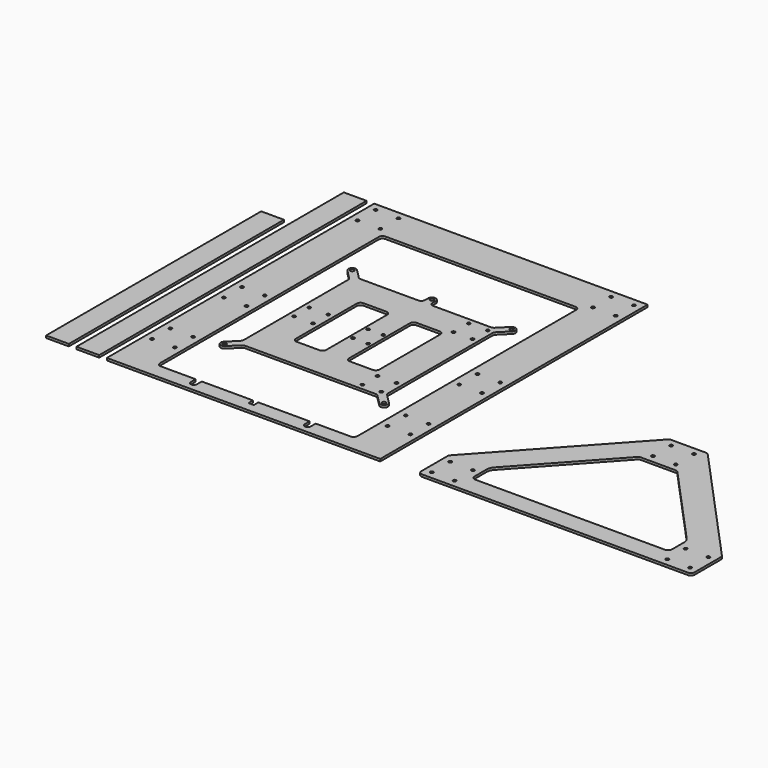
from build123d import *

# Parameters (mm, degrees)
F0_W     = 360
F0_H     = 440
F0_R     = 2.05
F1_DEPTH = 3
F2_R     = 2.45
F2_R_2   = 2.05
F3_DEPTH = 3
F4_R     = 2.05
F5_DEPTH = 3
F6_W     = 30
F6_H     = 440
F7_W     = 30
F7_H     = 354
F8_DEPTH = 3


with BuildPart() as f1:
    # F0 (on Top) → F1 (new body)
    with BuildSketch(Plane.XY):
        with Locations((180, 220)):
            Rectangle(F0_W, F0_H)
        with Locations((10, 62)):
            Circle(F0_R, mode=Mode.SUBTRACT)
        with Locations((40, 62)):
            Circle(F0_R, mode=Mode.SUBTRACT)
        with Locations((10, 92)):
            Circle(F0_R, mode=Mode.SUBTRACT)
        with Locations((40, 92)):
            Circle(F0_R, mode=Mode.SUBTRACT)
        with Locations((10, 180)):
            Circle(F0_R, mode=Mode.SUBTRACT)
        with Locations((40, 180)):
            Circle(F0_R, mode=Mode.SUBTRACT)
        with Locations((10, 210)):
            Circle(F0_R, mode=Mode.SUBTRACT)
        with Locations((40, 210)):
            Circle(F0_R, mode=Mode.SUBTRACT)
        with Locations((320, 62)):
            Circle(F0_R, mode=Mode.SUBTRACT)
        with Locations((350, 62)):
            Circle(F0_R, mode=Mode.SUBTRACT)
        with Locations((320, 92)):
            Circle(F0_R, mode=Mode.SUBTRACT)
        with Locations((350, 92)):
            Circle(F0_R, mode=Mode.SUBTRACT)
        with BuildLine():
            Line((55, 390), (305, 390))
            ThreePointArc((305, 390), (308.535534, 388.535534), (310, 385))
            Line((310, 385), (310, 25))
            ThreePointArc((310, 25), (308.535534, 21.464466), (305, 20))
            Line((305, 20), (259, 20))
            Line((259, 20), (259, 12))
            ThreePointArc((259, 12), (255, 8), (251, 12))
            Line((251, 12), (251, 20))
            Line((251, 20), (183.5, 20))
            Line((183.5, 20), (183.5, 12.5))
            Line((183.5, 12.5), (176.5, 12.5))
            Line((176.5, 12.5), (176.5, 20))
            Line((176.5, 20), (109, 20))
            Line((109, 20), (109, 12))
            ThreePointArc((109, 12), (105, 8), (101, 12))
            Line((101, 12), (101, 20))
            Line((101, 20), (55, 20))
            ThreePointArc((55, 20), (51.464466, 21.464466), (50, 25))
            Line((50, 25), (50, 385))
            ThreePointArc((50, 385), (51.464466, 388.535534), (55, 390))
        make_face(mode=Mode.SUBTRACT)
        with Locations((320, 180)):
            Circle(F0_R, mode=Mode.SUBTRACT)
        with Locations((350, 180)):
            Circle(F0_R, mode=Mode.SUBTRACT)
        with Locations((320, 210)):
            Circle(F0_R, mode=Mode.SUBTRACT)
        with Locations((350, 210)):
            Circle(F0_R, mode=Mode.SUBTRACT)
        with Locations((10, 400)):
            Circle(F0_R, mode=Mode.SUBTRACT)
        with Locations((40, 400)):
            Circle(F0_R, mode=Mode.SUBTRACT)
        with Locations((10, 430)):
            Circle(F0_R, mode=Mode.SUBTRACT)
        with Locations((40, 430)):
            Circle(F0_R, mode=Mode.SUBTRACT)
        with Locations((320, 400)):
            Circle(F0_R, mode=Mode.SUBTRACT)
        with Locations((350, 400)):
            Circle(F0_R, mode=Mode.SUBTRACT)
        with Locations((320, 430)):
            Circle(F0_R, mode=Mode.SUBTRACT)
        with Locations((350, 430)):
            Circle(F0_R, mode=Mode.SUBTRACT)
    extrude(amount=F1_DEPTH)


with BuildPart() as f3:
    # F2 (on Top) → F3 (new body)
    with BuildSketch(Plane.XY):
        with BuildLine():
            Line((275, 119.142136), (275, 290.857864))
            ThreePointArc((275, 290.857864), (275.380602, 292.771282), (276.464466, 294.393398))
            Line((276.464466, 294.393398), (288.535534, 306.464466))
            ThreePointArc((288.535534, 306.464466), (288.535534, 313.535534), (281.464466, 313.535534))
            Line((281.464466, 313.535534), (269.393398, 301.464466))
            ThreePointArc((269.393398, 301.464466), (267.771282, 300.380602), (265.857864, 300))
            Line((265.857864, 300), (190, 300))
            ThreePointArc((190, 300), (186.464466, 301.464466), (185, 305))
            Line((185, 305), (185, 310))
            ThreePointArc((185, 310), (180, 315), (175, 310))
            Line((175, 310), (175, 305))
            ThreePointArc((175, 305), (173.535534, 301.464466), (170, 300))
            Line((170, 300), (94.142136, 300))
            ThreePointArc((94.142136, 300), (92.228718, 300.380602), (90.606602, 301.464466))
            Line((90.606602, 301.464466), (78.535534, 313.535534))
            ThreePointArc((78.535534, 313.535534), (71.464466, 313.535534), (71.464466, 306.464466))
            Line((71.464466, 306.464466), (83.535534, 294.393398))
            ThreePointArc((83.535534, 294.393398), (84.619398, 292.771282), (85, 290.857864))
            Line((85, 290.857864), (85, 119.142136))
            ThreePointArc((85, 119.142136), (84.619398, 117.228718), (83.535534, 115.606602))
            Line((83.535534, 115.606602), (71.464466, 103.535534))
            ThreePointArc((71.464466, 103.535534), (71.464466, 96.464466), (78.535534, 96.464466))
            Line((78.535534, 96.464466), (90.606602, 108.535534))
            ThreePointArc((90.606602, 108.535534), (92.228718, 109.619398), (94.142136, 110))
            Line((94.142136, 110), (180, 110))
            Line((180, 110), (265.857864, 110))
            ThreePointArc((265.857864, 110), (267.771282, 109.619398), (269.393398, 108.535534))
            Line((269.393398, 108.535534), (281.464466, 96.464466))
            ThreePointArc((281.464466, 96.464466), (288.535534, 96.464466), (288.535534, 103.535534))
            Line((288.535534, 103.535534), (276.464466, 115.606602))
            ThreePointArc((276.464466, 115.606602), (275.380602, 117.228718), (275, 119.142136))
        make_face()
        with Locations((75, 100)):
            Circle(F2_R, mode=Mode.SUBTRACT)
        with Locations((92.5, 192.5)):
            Circle(F2_R_2, mode=Mode.SUBTRACT)
        with Locations((117.5, 192.5)):
            Circle(F2_R_2, mode=Mode.SUBTRACT)
        with BuildLine():
            ThreePointArc((125, 255), (126.464466, 258.535534), (130, 260))
            Line((130, 260), (160, 260))
            ThreePointArc((160, 260), (163.535534, 258.535534), (165, 255))
            Line((165, 255), (165, 155))
            ThreePointArc((165, 155), (163.535534, 151.464466), (160, 150))
            Line((160, 150), (130, 150))
            ThreePointArc((130, 150), (126.464466, 151.464466), (125, 155))
            Line((125, 155), (125, 255))
        make_face(mode=Mode.SUBTRACT)
        with Locations((170, 192.5)):
            Circle(F2_R_2, mode=Mode.SUBTRACT)
        with Locations((242.5, 117.5)):
            Circle(F2_R_2, mode=Mode.SUBTRACT)
        with Locations((285, 100)):
            Circle(F2_R, mode=Mode.SUBTRACT)
        with Locations((267.5, 117.5)):
            Circle(F2_R_2, mode=Mode.SUBTRACT)
        with Locations((242.5, 142.5)):
            Circle(F2_R_2, mode=Mode.SUBTRACT)
        with Locations((267.5, 142.5)):
            Circle(F2_R_2, mode=Mode.SUBTRACT)
        with Locations((190, 192.5)):
            Circle(F2_R_2, mode=Mode.SUBTRACT)
        with BuildLine():
            ThreePointArc((195, 255), (196.464466, 258.535534), (200, 260))
            Line((200, 260), (230, 260))
            ThreePointArc((230, 260), (233.535534, 258.535534), (235, 255))
            Line((235, 255), (235, 155))
            ThreePointArc((235, 155), (233.535534, 151.464466), (230, 150))
            Line((230, 150), (200, 150))
            ThreePointArc((200, 150), (196.464466, 151.464466), (195, 155))
            Line((195, 155), (195, 255))
        make_face(mode=Mode.SUBTRACT)
        with Locations((92.5, 217.5)):
            Circle(F2_R_2, mode=Mode.SUBTRACT)
        with Locations((117.5, 217.5)):
            Circle(F2_R_2, mode=Mode.SUBTRACT)
        with Locations((170, 217.5)):
            Circle(F2_R_2, mode=Mode.SUBTRACT)
        with Locations((75, 310)):
            Circle(F2_R, mode=Mode.SUBTRACT)
        with Locations((190, 217.5)):
            Circle(F2_R_2, mode=Mode.SUBTRACT)
        with Locations((180, 310)):
            Circle(F2_R, mode=Mode.SUBTRACT)
        with Locations((242.5, 267.5)):
            Circle(F2_R_2, mode=Mode.SUBTRACT)
        with Locations((267.5, 267.5)):
            Circle(F2_R_2, mode=Mode.SUBTRACT)
        with Locations((242.5, 292.5)):
            Circle(F2_R_2, mode=Mode.SUBTRACT)
        with Locations((267.5, 292.5)):
            Circle(F2_R_2, mode=Mode.SUBTRACT)
        with Locations((285, 310)):
            Circle(F2_R, mode=Mode.SUBTRACT)
    extrude(amount=F3_DEPTH)


with BuildPart() as f5:
    # F4 (on Top) → F5 (new body)
    with BuildSketch(Plane.XY):
        with BuildLine():
            ThreePointArc((410, 5), (411.464466, 1.464466), (415, 0))
            Line((415, 0), (765, 0))
            ThreePointArc((765, 0), (768.535534, 1.464466), (770, 5))
            Line((770, 5), (770, 48.062763))
            ThreePointArc((770, 48.062763), (769.66229, 49.869155), (768.694779, 51.431532))
            Line((768.694779, 51.431532), (616.487299, 218.368769))
            ThreePointArc((616.487299, 218.368769), (614.811944, 219.574049), (612.792519, 220))
            Line((612.792519, 220), (567.207481, 220))
            ThreePointArc((567.207481, 220), (565.188056, 219.574049), (563.512701, 218.368769))
            Line((563.512701, 218.368769), (411.305221, 51.431532))
            ThreePointArc((411.305221, 51.431532), (410.33771, 49.869155), (410, 48.062763))
            Line((410, 48.062763), (410, 5))
        make_face()
        with Locations((420, 10)):
            Circle(F4_R, mode=Mode.SUBTRACT)
        with Locations((450, 10)):
            Circle(F4_R, mode=Mode.SUBTRACT)
        with Locations((420, 40)):
            Circle(F4_R, mode=Mode.SUBTRACT)
        with Locations((450, 40)):
            Circle(F4_R, mode=Mode.SUBTRACT)
        with Locations((730, 10)):
            Circle(F4_R, mode=Mode.SUBTRACT)
        with Locations((760, 10)):
            Circle(F4_R, mode=Mode.SUBTRACT)
        with Locations((730, 40)):
            Circle(F4_R, mode=Mode.SUBTRACT)
        with Locations((760, 40)):
            Circle(F4_R, mode=Mode.SUBTRACT)
        with BuildLine():
            Line((567.207481, 170), (612.792519, 170))
            ThreePointArc((612.792519, 170), (614.811944, 169.574049), (616.487299, 168.368769))
            Line((616.487299, 168.368769), (716.739901, 58.414302))
            ThreePointArc((716.739901, 58.414302), (719.156489, 54.511894), (720, 50))
            Line((720, 50), (720, 30))
            ThreePointArc((720, 30), (718.535534, 26.464466), (715, 25))
            Line((715, 25), (465, 25))
            ThreePointArc((465, 25), (461.464466, 26.464466), (460, 30))
            Line((460, 30), (460, 50))
            ThreePointArc((460, 50), (460.843511, 54.511894), (463.260099, 58.414302))
            Line((463.260099, 58.414302), (563.512701, 168.368769))
            ThreePointArc((563.512701, 168.368769), (565.188056, 169.574049), (567.207481, 170))
        make_face(mode=Mode.SUBTRACT)
        with Locations((575, 180)):
            Circle(F4_R, mode=Mode.SUBTRACT)
        with Locations((575, 210)):
            Circle(F4_R, mode=Mode.SUBTRACT)
        with Locations((605, 180)):
            Circle(F4_R, mode=Mode.SUBTRACT)
        with Locations((605, 210)):
            Circle(F4_R, mode=Mode.SUBTRACT)
    extrude(amount=F5_DEPTH)


with BuildPart() as f8:
    # F6 (on Top) + F7 (on Top) → F8 (new body)
    with BuildSketch(Plane.XY):
        with Locations((-25, 220)):
            Rectangle(F6_W, F6_H)
    with BuildSketch(Plane.XY):
        with Locations((-65, 177)):
            Rectangle(F7_W, F7_H)
    extrude(amount=F8_DEPTH)


solid = Compound([f1.part, f3.part, f5.part, f8.part])
